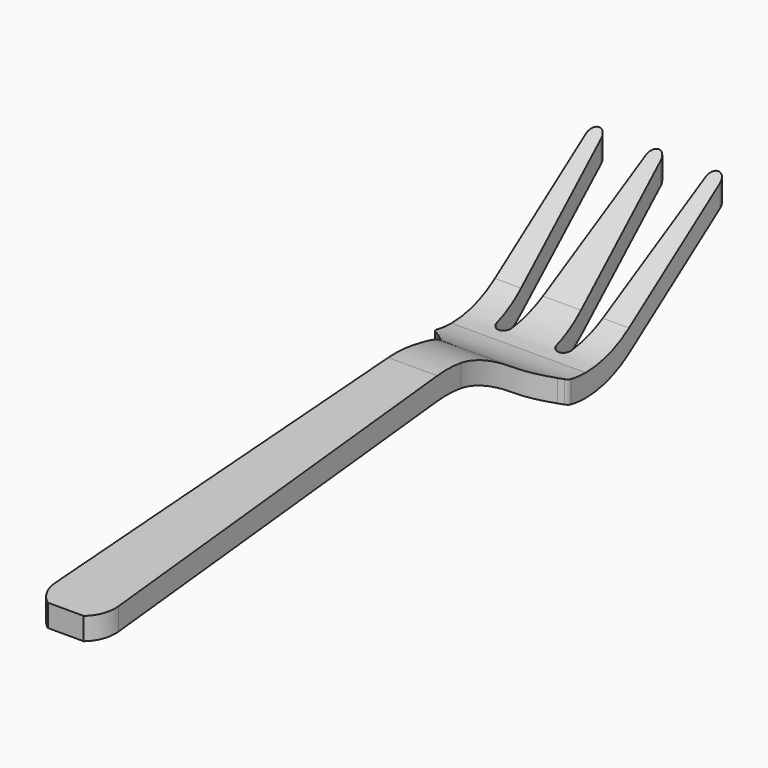
from build123d import *

# Parameters (mm, degrees)
PAD001_DEPTH = 50
PAD_DEPTH    = 50


with BuildPart() as obj1:
    # Sketch → Pad001 (new body)
    with BuildSketch(Plane.YZ):
        with BuildLine():
            Line((-7, 0), (109.440979, 10))
            ThreePointArc((130.889931, 4.362511), (120.653215, 9.037037), (109.440979, 10))
            ThreePointArc((130.889931, 4.362511), (137.615463, 1.115515), (145, 0))
            ThreePointArc((145, 0), (152.631281, 1.193204), (159.534108, 4.658916))
            Line((159.534108, 4.658916), (195, 30))
            Line((195, 30), (195, 36))
            Line((159.534108, 10.658916), (195, 36))
            ThreePointArc((145, 6), (152.631281, 7.193204), (159.534108, 10.658916))
            ThreePointArc((130.889584, 10.362749), (137.615262, 7.115577), (145, 6))
            ThreePointArc((130.889584, 10.362749), (120.652594, 15.03754), (109.44, 16.000536))
            Line((-7, 6), (109.44, 16.000536))
            Line((-7, 6), (-7, 0))
        make_face()
    extrude(amount=PAD001_DEPTH)


with BuildPart() as obj1_1:
    # Body001 placement: moved
    add(obj1.part.moved(Location((-25, 0, 0))))


with BuildPart() as common:
    # Sketch003 → Pad (new body)
    with BuildSketch(Plane.XY):
        with BuildLine():
            Line((18, 190.020199), (18, 140.020199))
            ThreePointArc((17.359364, 138.714947), (17.831207, 139.293202), (18, 140.020199))
            Line((17.359364, 138.714947), (16.151931, 137.781227))
            ThreePointArc((16.151931, 137.781227), (8.907519, 128.823515), (6.449131, 117.568362))
            Line((6.449131, 117.568362), (8.498705, 0.148345))
            ThreePointArc((0, -8.5), (6.062629, -5.957729), (8.498705, 0.148345))
            ThreePointArc((-8.498705, 0.148345), (-6.062629, -5.957729), (0, -8.5))
            Line((-6.449131, 117.568362), (-8.498705, 0.148345))
            ThreePointArc((-6.449131, 117.568362), (-8.907519, 128.823515), (-16.151931, 137.781227))
            Line((-17.359364, 138.714947), (-16.151931, 137.781227))
            ThreePointArc((-18, 140.020199), (-17.831207, 139.293202), (-17.359364, 138.714947))
            Line((-18, 190.020199), (-18, 140.020199))
            ThreePointArc((-14.009771, 190.217657), (-16.098849, 192.017755), (-18, 190.020199))
            Line((-14.009771, 190.217657), (-10.040229, 150.207506))
            ThreePointArc((-10.040229, 150.207506), (-8.052525, 148.404965), (-6.060276, 150.202482))
            Line((-6.060276, 150.202482), (-1.989724, 190.202482))
            ThreePointArc((0, 192), (-1.340716, 191.484076), (-1.989724, 190.202482))
            ThreePointArc((1.989724, 190.202482), (1.340716, 191.484076), (0, 192))
            Line((6.060276, 150.202482), (1.989724, 190.202482))
            ThreePointArc((6.060276, 150.202482), (8.052525, 148.404965), (10.040229, 150.207506))
            Line((14.009771, 190.217657), (10.040229, 150.207506))
            ThreePointArc((18, 190.020199), (16.098849, 192.017755), (14.009771, 190.217657))
        make_face()
    extrude(amount=PAD_DEPTH)


with BuildPart() as common_1:
    # Body placement: moved
    add(common.part.moved(Location((0, 0, -8))))

    # Common: intersect obj1
    add(obj1_1.part, mode=Mode.INTERSECT)


solid = common_1.part
